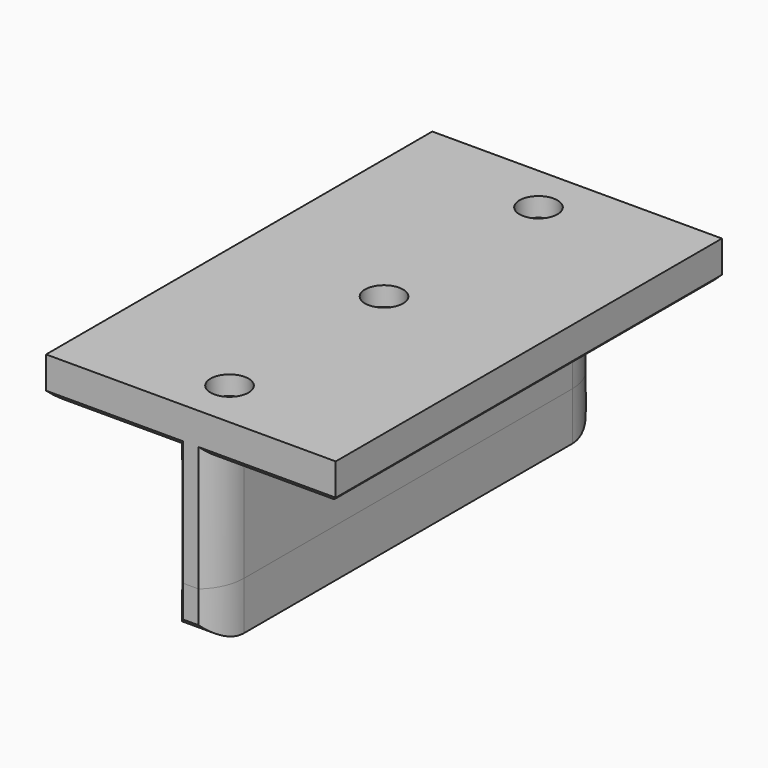
from build123d import *

# Parameters (mm, degrees)
F1_DEPTH  = 63.5
F2_W      = 12.7
F2_H      = 127
F3_DEPTH  = 12.7
F4_R      = 4.99999
F5_DEPTH  = 5.00126
F6_R      = 4.99999
F7_DEPTH  = 5.00126
F8_R      = 2.74955
F9_DEPTH  = 48.97474
F15_DEPTH = 25.4
F17_DEPTH = 127.001
F19_DEPTH = 44.451


with BuildPart() as f1:
    # F0 (on Front) → F1 (new body, symmetric)
    with BuildSketch(Plane.XZ):
        Polygon((-6.35, 22.6785714286), (-6.35, -5.8964285714), (6.35, -5.8964285714), (6.35, 22.6785714286), (38.1, 22.6785714286), (38.1, 35.3785714286), (-38.1, 35.3785714286), (-38.1, 22.6785714286), align=None)
    extrude(amount=F1_DEPTH, both=True)

    # F4 (on face) → F5 (cut)
    with BuildSketch(Plane.XY.offset(35.3785714286)):
        with Locations((0, 50.8)):
            Circle(F4_R)
        with Locations((0, -50.8)):
            Circle(F4_R)
        Circle(F4_R)
    extrude(amount=-F5_DEPTH, mode=Mode.SUBTRACT)


with BuildPart() as f3:
    # F2 (on face) → F3 (new body)
    with BuildSketch(Plane(origin=(0, 0, -5.8964285714), x_dir=(1, 0, 0), z_dir=(0, 0, -1))):
        Rectangle(F2_W, F2_H)
    extrude(amount=F3_DEPTH)

    # F6 (on face) → F7 (cut)
    with BuildSketch(Plane(origin=(0, 0, -18.5964285714), x_dir=(1, 0, 0), z_dir=(0, 0, -1))):
        Circle(F6_R)
        with Locations((0, -50.8)):
            Circle(F6_R)
        with Locations((0, 50.8)):
            Circle(F6_R)
    extrude(amount=-F7_DEPTH, mode=Mode.SUBTRACT)


with BuildPart() as f9_tool:
    # F8 (on face) → F9 (new body, through all)
    with BuildSketch(Plane.XY.offset(30.3773114286)):
        Circle(F8_R)
        with Locations((0, 50.8)):
            Circle(F8_R)
        with Locations((0, -50.8)):
            Circle(F8_R)
    extrude(amount=-F9_DEPTH)


with BuildPart() as f1_1:
    add(f1.part)

    # F9: cut by f9_tool
    add(f9_tool.part, mode=Mode.SUBTRACT)

    # F11: sweep along a path in F11_path
    with BuildLine(Plane(origin=(38.1, -63.5, 22.6785714286), x_dir=(0, 0, -1), z_dir=(0, 1, 0))) as f11_path:
        Line((0, 0), (0, 31.75))
        Line((0, 31.75), (28.575, 31.75))
    # F10 (on face) → F11 (sweep, cut)
    with BuildSketch(Plane.YZ.offset(38.1)):
        with BuildLine():
            ThreePointArc((-53.975, 22.6785714286), (-59.2002604126, 23.8033110159), (-63.5, 26.9783110159))
            Line((-63.5, 26.9783110159), (-63.5, 22.6785714286))
            Line((-63.5, 22.6785714286), (-53.975, 22.6785714286))
        make_face()
        with BuildLine():
            ThreePointArc((63.5, 26.9783110159), (59.2002604126, 23.8033110159), (53.975, 22.6785714286))
            Line((53.975, 22.6785714286), (63.5, 22.6785714286))
            Line((63.5, 22.6785714286), (63.5, 26.9783110159))
        make_face()
    sweep(path=f11_path.line, transition=Transition.RIGHT, mode=Mode.SUBTRACT)

    # F13: sweep along a path in F13_path
    with BuildLine(Plane(origin=(-38.1, -63.5, 22.6785714286), x_dir=(0, 0, 1), z_dir=(0, -1, 0))) as f13_path:
        Line((0, 0), (0, -31.75))
        Line((0, -31.75), (-28.575, -31.75))
    # F12 (on face) → F13 (sweep, cut)
    with BuildSketch(Plane(origin=(-38.1, 0, 0), x_dir=(0, -1, 0), z_dir=(-1, 0, 0))):
        with BuildLine():
            Line((53.975, 22.6785714286), (63.5, 22.6785714286))
            Line((63.5, 22.6785714286), (63.5, 26.9783110159))
            ThreePointArc((63.5, 26.9783110159), (59.2002604126, 23.8033110159), (53.975, 22.6785714286))
        make_face()
        with BuildLine():
            Line((-63.5, 26.9783110159), (-63.5, 22.6785714286))
            Line((-63.5, 22.6785714286), (-53.975, 22.6785714286))
            ThreePointArc((-53.975, 22.6785714286), (-59.2002604126, 23.8033110159), (-63.5, 26.9783110159))
        make_face()
    sweep(path=f13_path.line, transition=Transition.RIGHT, mode=Mode.SUBTRACT)

    # F16 (on face) → F17 (cut, through all)
    with BuildSketch(Plane(origin=(0, 63.5, 0), x_dir=(-1, 0, 0), z_dir=(0, 1, 0))):
        with BuildLine():
            ThreePointArc((-28.575, 22.6785714286), (-33.8002604126, 23.8033110159), (-38.1, 26.9783110159))
            Line((-38.1, 26.9783110159), (-38.1, 22.6785714286))
            Line((-38.1, 22.6785714286), (-28.575, 22.6785714286))
        make_face()
        with BuildLine():
            ThreePointArc((38.1, 26.9783110159), (33.8002604126, 23.8033110159), (28.575, 22.6785714286))
            Line((28.575, 22.6785714286), (38.1, 22.6785714286))
            Line((38.1, 22.6785714286), (38.1, 26.9783110159))
        make_face()
    extrude(amount=-F17_DEPTH, mode=Mode.SUBTRACT)


with BuildPart() as f3_1:
    add(f3.part)

    # F9: cut by f9_tool
    add(f9_tool.part, mode=Mode.SUBTRACT)

    # F14 (on face) → F15 (cut)
    with BuildSketch(Plane.XY.offset(-5.8964285714)):
        with BuildLine():
            Line((-6.35, 63.5), (-6.35, 53.975))
            ThreePointArc((-6.35, 53.975), (-5.2252604126, 59.2002604126), (-2.0502604126, 63.5))
            Line((-2.0502604126, 63.5), (-6.35, 63.5))
        make_face()
        with BuildLine():
            Line((-6.35, -53.975), (-6.35, -63.5))
            Line((-6.35, -63.5), (-2.0502604126, -63.5))
            ThreePointArc((-2.0502604126, -63.5), (-5.2252604126, -59.2002604126), (-6.35, -53.975))
        make_face()
        with BuildLine():
            Line((2.0502604126, -63.5), (6.35, -63.5))
            Line((6.35, -63.5), (6.35, -53.975))
            ThreePointArc((6.35, -53.975), (5.2252604126, -59.2002604126), (2.0502604126, -63.5))
        make_face()
        with BuildLine():
            Line((6.35, 63.5), (2.0502604126, 63.5))
            ThreePointArc((2.0502604126, 63.5), (5.2252604126, 59.2002604126), (6.35, 53.975))
            Line((6.35, 53.975), (6.35, 63.5))
        make_face()
    extrude(amount=-F15_DEPTH, mode=Mode.SUBTRACT)

    # F18 (on face) → F19 (cut, through all)
    with BuildSketch(Plane.YZ.offset(6.35)):
        with BuildLine():
            ThreePointArc((-53.975, -18.5964285714), (-59.2002604126, -17.4716889841), (-63.5, -14.2966889841))
            Line((-63.5, -14.2966889841), (-63.5, -18.5964285714))
            Line((-63.5, -18.5964285714), (-53.975, -18.5964285714))
        make_face()
        with BuildLine():
            Line((63.5, -18.5964285714), (63.5, -14.2966889841))
            ThreePointArc((63.5, -14.2966889841), (59.2002604126, -17.4716889841), (53.975, -18.5964285714))
            Line((53.975, -18.5964285714), (63.5, -18.5964285714))
        make_face()
    extrude(amount=-F19_DEPTH, mode=Mode.SUBTRACT)


solid = Compound([f1_1.part, f3_1.part])
